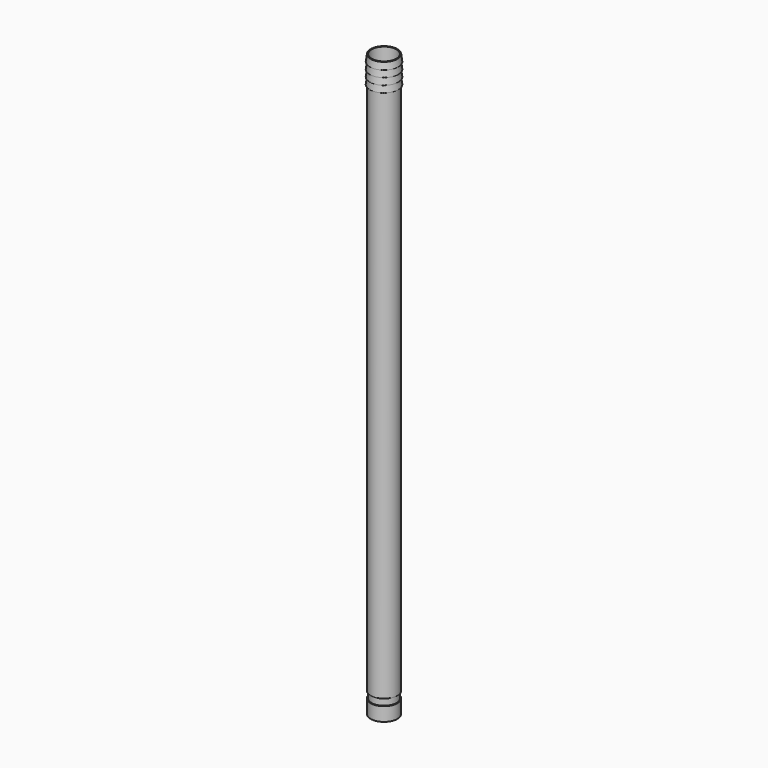
from build123d import *

# Parameters (mm, degrees)
F0_W   = 0.4161982276
F0_H   = 6.1783934414
F0_W_2 = 0.5838017724
F0_H_2 = 3


with BuildPart() as f1:
    # F0 (on Front) → F1 (revolve)
    with BuildSketch(Plane.XZ):
        with Locations((5.7919008862, -63.3643986553)):
            Rectangle(F0_W, F0_H)
    revolve(axis=Axis((0, 0, 63.7747980654), (0, 0, 1)))


with BuildPart() as f1b:
    # F0 (on Front) → F1, piece 2 (revolve)
    with BuildSketch(Plane.XZ):
        Polygon((5.5838017724, 193.646404624), (5.5838017724, -57.2752019346), (6, -57.2752019346), (6, 181.646404624), (6, 184.646404624), (6, 187.646404624), (6, 190.646404624), (6, 193.646404624), align=None)
        Polygon((6, 184.646404624), (6, 181.646404624), (6.4, 181.646404624), align=None)
        Polygon((6.4, 190.646404624), (6, 193.646404624), (6, 190.646404624), align=None)
        Polygon((6, 187.646404624), (6, 184.646404624), (6.4, 184.646404624), align=None)
        Polygon((6.4, 187.646404624), (6, 190.646404624), (6, 187.646404624), align=None)
    revolve(axis=Axis((0, 0, 63.7747980654), (0, 0, 1)))


with BuildPart() as f1c:
    # F0 (on Front) → F1, piece 3 (revolve)
    with BuildSketch(Plane.XZ):
        with Locations((5.2919008862, -58.7752019346)):
            Rectangle(F0_W_2, F0_H_2)
    revolve(axis=Axis((0, 0, 63.7747980654), (0, 0, 1)))


solid = Compound([f1.part, f1b.part, f1c.part])
